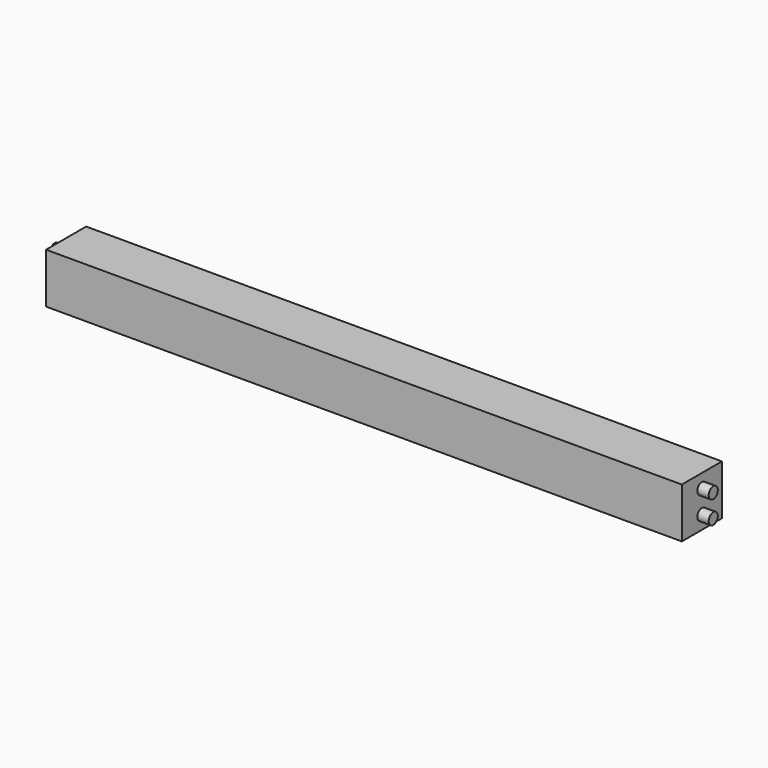
from build123d import *

# Parameters (mm, degrees)
F0_W          = 558
F0_H          = 44
F1_DEPTH      = 44
F2_R          = 5
F3_DEPTH      = 10
F3_DEPTH_BACK = 568


with BuildPart() as f1:
    # F0 (on Top) → F1 (new body)
    with BuildSketch(Plane.XY):
        with Locations((279, 22)):
            Rectangle(F0_W, F0_H)
    extrude(amount=F1_DEPTH)

    # F2 (on face) → F3 (join, two sides)
    with BuildSketch(Plane(origin=(0, 0, 0), x_dir=(0, -1, 0), z_dir=(-1, 0, 0))) as f3_sk:
        with Locations((-22, 32)):
            Circle(F2_R)
        with Locations((-22, 12)):
            Circle(F2_R)
    extrude(amount=F3_DEPTH)
    extrude(f3_sk.sketch, amount=-F3_DEPTH_BACK)


solid = f1.part
